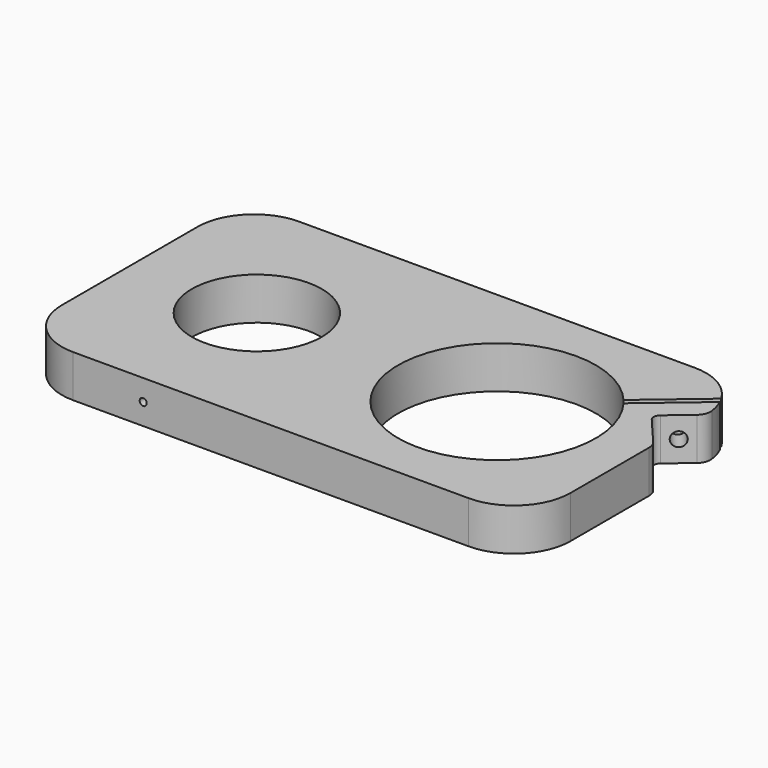
from build123d import *

# Parameters (mm, degrees)
F0_R      = 29.21
F10_DEPTH = 19.05
F1_R      = 3.175
F2_DEPTH  = 3.175
F3_R      = 1.5875
F4_DEPTH  = 28.575
F5_R      = 3.175
F11_DEPTH = 9.526
F6_R      = 1.5875
F7_DEPTH  = 25.4
F8_R      = 1.5875
F9_DEPTH  = 25.4


with BuildPart() as f10:
    # F0 (on Top) → F10 (new body)
    with BuildSketch(Plane.XY):
        with BuildLine():
            Line((38.1, 63.5), (-139.7, 63.5))
            ThreePointArc((-139.7, 63.5), (-157.6605122421, 56.0605122421), (-165.1, 38.1))
            Line((-165.1, 38.1), (-165.1, -38.1))
            ThreePointArc((-165.1, -38.1), (-157.6605122421, -56.0605122421), (-139.7, -63.5))
            Line((-139.7, -63.5), (38.1, -63.5))
            ThreePointArc((38.1, -63.5), (56.0605122421, -56.0605122421), (63.5, -38.1))
            Line((63.5, -38.1), (63.5, 6.1400658214))
            ThreePointArc((63.5, 6.1400658214), (63.1105704313, 8.3296091832), (61.9900472022, 10.2505941427))
            Line((61.9900472022, 10.2505941427), (50.937113555, 23.2651548983))
            ThreePointArc((50.937113555, 23.2651548983), (50.192630832, 25.5783429328), (51.3018729955, 27.7404426601))
            Line((51.3018729955, 27.7404426601), (61.058563678, 36.026550563))
            ThreePointArc((61.058563678, 36.026550563), (62.8898833704, 38.6267446044), (63.2307138089, 41.7887970203))
            ThreePointArc((63.2307138089, 41.7887970203), (62.4610549959, 45.2902016304), (61.206100491, 48.648370495))
            Line((61.206100491, 48.648370495), (35.46918169, 26.7906634902))
            ThreePointArc((35.46918169, 26.7906634902), (-34.6889292719, -27.7935367661), (33.8803304154, 28.7736982493))
            Line((33.8803304154, 28.7736982493), (60.0039803909, 50.9598461512))
            ThreePointArc((60.0039803909, 50.9598461512), (50.719823845, 60.1431405685), (38.1, 63.5))
        make_face()
        with Locations((-107.95, 0)):
            Circle(F0_R, mode=Mode.SUBTRACT)
    extrude(amount=F10_DEPTH)

    # F1 (on face) → F2 (cut)
    with BuildSketch(Plane.XY):
        with Locations((-152.4, -50.8)):
            Circle(F1_R)
        with Locations((50.8, -50.8)):
            Circle(F1_R)
        with Locations((50.8, 50.8)):
            Circle(F1_R)
        with Locations((-152.4, 50.8)):
            Circle(F1_R)
    extrude(amount=F2_DEPTH, mode=Mode.SUBTRACT)

    # F3 (on face) → F4 (cut)
    with BuildSketch(Plane(origin=(7.8100038105, -9.1960896842, 0), x_dir=(0.7622121578, 0.6473272947, 0), z_dir=(0.6473272947, -0.7622121578, 0))):
        with Locations((63.4603030527, 9.525)):
            Circle(F3_R)
    extrude(amount=-F4_DEPTH, mode=Mode.SUBTRACT)

    # F5 (on face) → F11 (cut, through all)
    with BuildSketch(Plane(origin=(7.8100038105, -9.1960896842, 0), x_dir=(0.7622121578, 0.6473272947, 0), z_dir=(0.6473272947, -0.7622121578, 0))):
        with Locations((63.4603030527, 9.525)):
            Circle(F5_R)
    extrude(amount=-F11_DEPTH, mode=Mode.SUBTRACT)

    # F6 (on face) → F7 (cut)
    with BuildSketch(Plane.XZ.offset(63.5)):
        with Locations((-108.2258597016, 9.525)):
            Circle(F6_R)
    extrude(amount=-F7_DEPTH, mode=Mode.SUBTRACT)

    # F8 (on face) → F9 (cut)
    with BuildSketch(Plane(origin=(-165.1, 0, 0), x_dir=(0, -1, 0), z_dir=(-1, 0, 0))):
        with Locations((0, 9.525)):
            Circle(F8_R)
    extrude(amount=-F9_DEPTH, mode=Mode.SUBTRACT)


solid = f10.part
